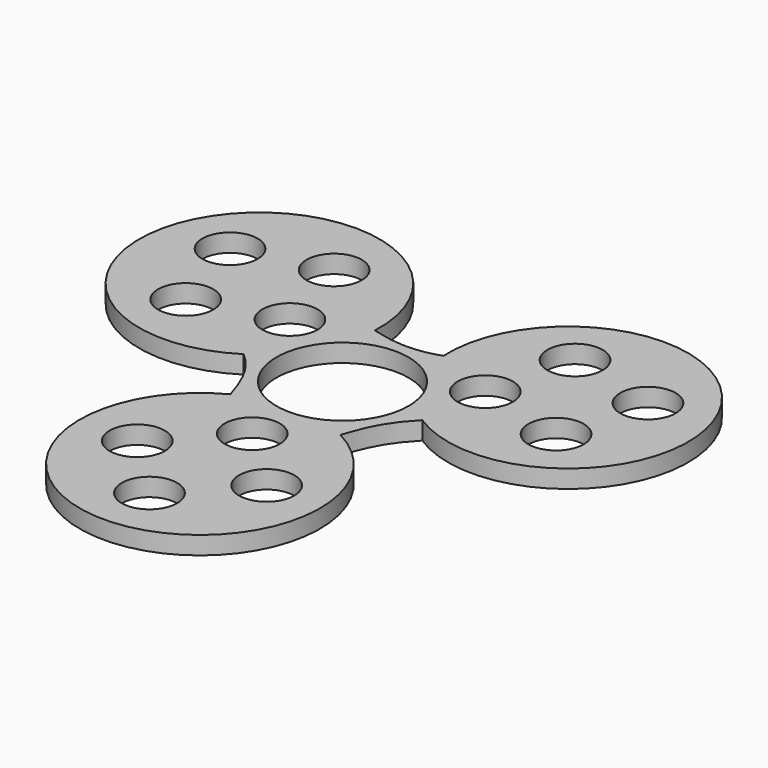
from build123d import *

# Parameters (mm, degrees)
F0_R     = 4.6
F0_R_2   = 11
F1_DEPTH = 3


with BuildPart() as f1:
    # F0 (on Top) → F1 (new body)
    with BuildSketch(Plane.XY):
        with BuildLine():
            add(Edge.make_bspline(
                [(-14.867876, -1.986521), (-12.023351, -4.351158), (-10.523469, -7.429861), (-9.154316, -11.882698)],
                knots=[0, 0, 0, 0, 11.427121, 11.427121, 11.427121, 11.427121], degree=3))
            ThreePointArc((-9.154316, -11.882698), (0, -49.664669), (9.154316, -11.882698))
            add(Edge.make_bspline(
                [(14.867876, -1.986521), (11.791558, -5.148942), (10.582049, -7.56796), (9.154316, -11.882698)],
                knots=[0, 0, 0, 0, 11.427121, 11.427121, 11.427121, 11.427121], degree=3))
            ThreePointArc((14.867876, -1.986521), (43.010865, 24.832335), (5.71356, 13.869219))
            add(Edge.make_bspline(
                [(-5.71356, 13.869219), (-1.449722, 12.686382), (1.813112, 12.540121), (5.71356, 13.869219)],
                knots=[0, 0, 0, 0, 11.427121, 11.427121, 11.427121, 11.427121], degree=3))
            ThreePointArc((-5.71356, 13.869219), (-43.010865, 24.832335), (-14.867876, -1.986521))
        make_face()
        with Locations((-10.428778, -29.664669)):
            Circle(F0_R, mode=Mode.SUBTRACT)
        with Locations((0, -40.15708)):
            Circle(F0_R, mode=Mode.SUBTRACT)
        with Locations((10.556041, -28.965175)):
            Circle(F0_R, mode=Mode.SUBTRACT)
        with Locations((0, -18.771583)):
            Circle(F0_R, mode=Mode.SUBTRACT)
        with Locations((-30.362598, 5.340788)):
            Circle(F0_R, mode=Mode.SUBTRACT)
        with Locations((-16.256668, 9.385792)):
            Circle(F0_R, mode=Mode.SUBTRACT)
        with Locations((-34.777051, 20.07854)):
            Circle(F0_R, mode=Mode.SUBTRACT)
        with Locations((-20.475968, 23.863921)):
            Circle(F0_R, mode=Mode.SUBTRACT)
        Circle(F0_R_2, mode=Mode.SUBTRACT)
        with Locations((16.256668, 9.385792)):
            Circle(F0_R, mode=Mode.SUBTRACT)
        with Locations((30.904746, 5.800748)):
            Circle(F0_R, mode=Mode.SUBTRACT)
        with Locations((19.806557, 23.624387)):
            Circle(F0_R, mode=Mode.SUBTRACT)
        with Locations((34.777051, 20.07854)):
            Circle(F0_R, mode=Mode.SUBTRACT)
    extrude(amount=F1_DEPTH)


solid = f1.part
